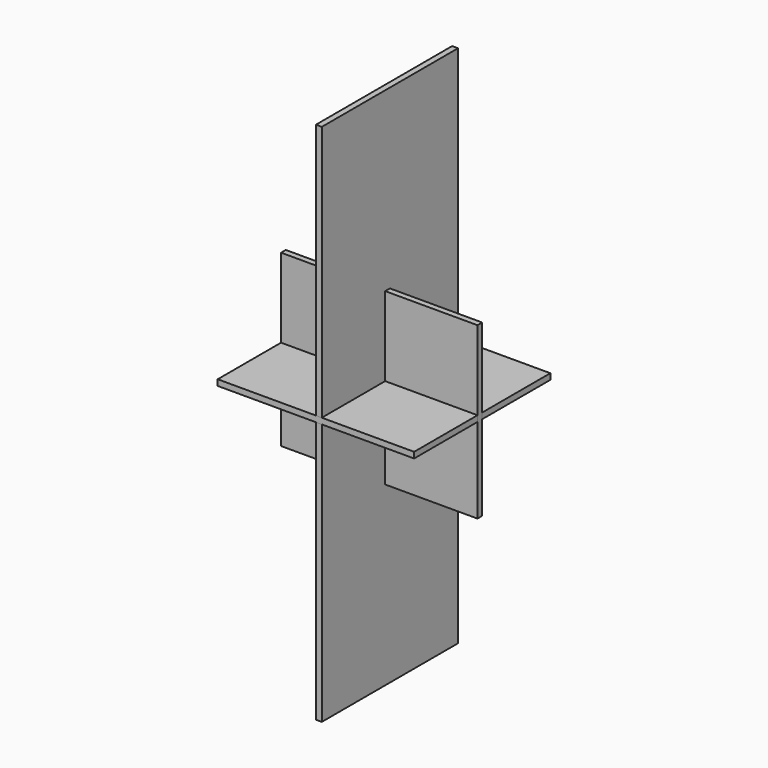
from build123d import *

# Parameters (mm, degrees)
F0_W      = 520
F0_H      = 1600
F1_DEPTH  = 18
F2_W      = 600
F2_H      = 520
F3_DEPTH  = 18
F4_W      = 600
F4_H      = 520
F5_DEPTH  = 18
F6_W      = 600
F6_H      = 200
F7_DEPTH  = 18
F8_W      = 600
F8_H      = 520
F9_DEPTH  = 18
F10_W     = 600
F10_H     = 520
F11_DEPTH = 18


with BuildPart() as f1:
    # F0 (on Right) → F1 (new body)
    with BuildSketch(Plane.YZ):
        Rectangle(F0_W, F0_H)
    extrude(amount=F1_DEPTH)


with BuildPart() as f3:
    # F2 (on Top) → F3 (new body)
    with BuildSketch(Plane.XY):
        Rectangle(F2_W, F2_H)
    extrude(amount=F3_DEPTH)


with BuildPart() as f5:
    # F4 (on Front) → F5 (new body)
    with BuildSketch(Plane.XZ):
        Rectangle(F4_W, F4_H)
    extrude(amount=F5_DEPTH)


with BuildPart() as f7:
    # F6 (on Front) → F7 (new body)
    with BuildSketch(Plane.XZ):
        Rectangle(F6_W, F6_H)
    extrude(amount=F7_DEPTH)


with BuildPart() as f9:
    # F8 (on Top) → F9 (new body)
    with BuildSketch(Plane.XY):
        Rectangle(F8_W, F8_H)
    extrude(amount=F9_DEPTH)


with BuildPart() as f11:
    # F10 (on Front) → F11 (new body)
    with BuildSketch(Plane.XZ):
        Rectangle(F10_W, F10_H)
    extrude(amount=F11_DEPTH)


solid = Compound([f1.part, f3.part, f5.part, f7.part, f9.part, f11.part])
